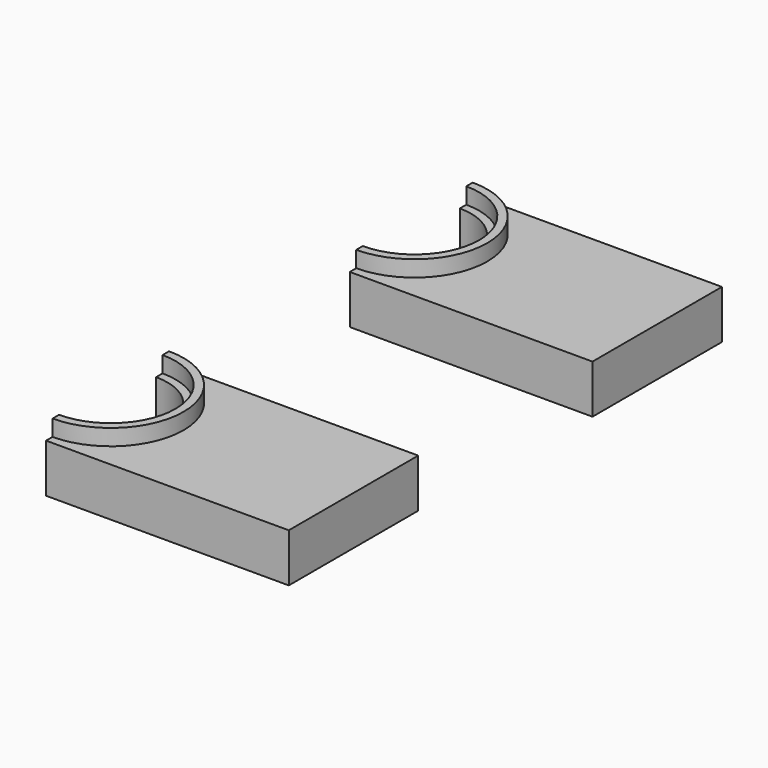
from build123d import *

# Parameters (mm, degrees)
F1_DEPTH = 30
F2_DEPTH = 40
F3_DEPTH = 10


with BuildPart() as f1:
    # F0 (on Top) → F1 (new body)
    with BuildSketch(Plane.XY):
        with BuildLine():
            ThreePointArc((-78.0790522695, -258.2348191738), (-38.0790522695, -218.2348191738), (-78.0790522695, -178.2348191738))
            Line((-78.0790522695, -178.2348191738), (-78.0790522695, -183.2348191738))
            ThreePointArc((-78.0790522695, -183.2348191738), (-43.0790522695, -218.2348191738), (-78.0790522695, -253.2348191738))
            Line((-78.0790522695, -253.2348191738), (-78.0790522695, -258.2348191738))
        make_face()
        with BuildLine():
            ThreePointArc((-78.0790522695, -268.2348191738), (-28.0790522695, -218.2348191738), (-78.0790522695, -168.2348191738))
            Line((-78.0790522695, -168.2348191738), (-78.0790522695, -173.2348191738))
            ThreePointArc((-78.0790522695, -173.2348191738), (-33.0790522695, -218.2348191738), (-78.0790522695, -263.2348191738))
            Line((-78.0790522695, -263.2348191738), (-78.0790522695, -268.2348191738))
        make_face()
        with BuildLine():
            ThreePointArc((-78.0790522695, -263.2348191738), (-33.0790522695, -218.2348191738), (-78.0790522695, -173.2348191738))
            Line((-78.0790522695, -173.2348191738), (-78.0790522695, -178.2348191738))
            ThreePointArc((-78.0790522695, -178.2348191738), (-38.0790522695, -218.2348191738), (-78.0790522695, -258.2348191738))
            Line((-78.0790522695, -258.2348191738), (-78.0790522695, -263.2348191738))
        make_face()
        with BuildLine():
            Line((71.9209477305, -168.2348191738), (-78.0790522695, -168.2348191738))
            ThreePointArc((-78.0790522695, -168.2348191738), (-28.0790522695, -218.2348191738), (-78.0790522695, -268.2348191738))
            Line((-78.0790522695, -268.2348191738), (71.9209477305, -268.2348191738))
            Line((71.9209477305, -268.2348191738), (71.9209477305, -168.2348191738))
        make_face()
    extrude(amount=F1_DEPTH)

    # F0 (on Top) → F2 (join)
    with BuildSketch(Plane.XY):
        with BuildLine():
            ThreePointArc((-78.0790522695, -263.2348191738), (-33.0790522695, -218.2348191738), (-78.0790522695, -173.2348191738))
            Line((-78.0790522695, -173.2348191738), (-78.0790522695, -178.2348191738))
            ThreePointArc((-78.0790522695, -178.2348191738), (-38.0790522695, -218.2348191738), (-78.0790522695, -258.2348191738))
            Line((-78.0790522695, -258.2348191738), (-78.0790522695, -263.2348191738))
        make_face()
    extrude(amount=F2_DEPTH)


with BuildPart() as f1b:
    # F0 (on Top) → F1, piece 2 (new body)
    with BuildSketch(Plane.XY):
        with BuildLine():
            Line((76.2191157851, 61.0128335655), (-73.7808842149, 61.0128335655))
            ThreePointArc((-73.7808842149, 61.0128335655), (-23.7808842149, 11.0128335655), (-73.7808842149, -38.9871664345))
            Line((-73.7808842149, -38.9871664345), (76.2191157851, -38.9871664345))
            Line((76.2191157851, -38.9871664345), (76.2191157851, 61.0128335655))
        make_face()
        with BuildLine():
            ThreePointArc((-73.7808842149, -38.9871664345), (-23.7808842149, 11.0128335655), (-73.7808842149, 61.0128335655))
            Line((-73.7808842149, 61.0128335655), (-73.7808842149, 56.0128335655))
            ThreePointArc((-73.7808842149, 56.0128335655), (-28.7808842149, 11.0128335655), (-73.7808842149, -33.9871664345))
            Line((-73.7808842149, -33.9871664345), (-73.7808842149, -38.9871664345))
        make_face()
        with BuildLine():
            ThreePointArc((-73.7808842149, -33.9871664345), (-28.7808842149, 11.0128335655), (-73.7808842149, 56.0128335655))
            Line((-73.7808842149, 56.0128335655), (-73.7808842149, 51.0128335655))
            ThreePointArc((-73.7808842149, 51.0128335655), (-33.7808842149, 11.0128335655), (-73.7808842149, -28.9871664345))
            Line((-73.7808842149, -28.9871664345), (-73.7808842149, -33.9871664345))
        make_face()
        with BuildLine():
            ThreePointArc((-73.7808842149, -28.9871664345), (-33.7808842149, 11.0128335655), (-73.7808842149, 51.0128335655))
            Line((-73.7808842149, 51.0128335655), (-73.7808842149, 46.0128335655))
            ThreePointArc((-73.7808842149, 46.0128335655), (-38.7808842149, 11.0128335655), (-73.7808842149, -23.9871664345))
            Line((-73.7808842149, -23.9871664345), (-73.7808842149, -28.9871664345))
        make_face()
    extrude(amount=F1_DEPTH)

    # F0 (on Top) → F2, piece 2 (join)
    with BuildSketch(Plane.XY):
        with BuildLine():
            ThreePointArc((-73.7808842149, -33.9871664345), (-28.7808842149, 11.0128335655), (-73.7808842149, 56.0128335655))
            Line((-73.7808842149, 56.0128335655), (-73.7808842149, 51.0128335655))
            ThreePointArc((-73.7808842149, 51.0128335655), (-33.7808842149, 11.0128335655), (-73.7808842149, -28.9871664345))
            Line((-73.7808842149, -28.9871664345), (-73.7808842149, -33.9871664345))
        make_face()
    extrude(amount=F2_DEPTH)


with BuildPart() as f3_tool:
    # F0 (on Top) → F3 (new body)
    with BuildSketch(Plane.XY):
        with BuildLine():
            ThreePointArc((-78.0790522695, -263.2348191738), (-33.0790522695, -218.2348191738), (-78.0790522695, -173.2348191738))
            Line((-78.0790522695, -173.2348191738), (-78.0790522695, -178.2348191738))
            ThreePointArc((-78.0790522695, -178.2348191738), (-38.0790522695, -218.2348191738), (-78.0790522695, -258.2348191738))
            Line((-78.0790522695, -258.2348191738), (-78.0790522695, -263.2348191738))
        make_face()
        with BuildLine():
            ThreePointArc((-73.7808842149, -33.9871664345), (-28.7808842149, 11.0128335655), (-73.7808842149, 56.0128335655))
            Line((-73.7808842149, 56.0128335655), (-73.7808842149, 51.0128335655))
            ThreePointArc((-73.7808842149, 51.0128335655), (-33.7808842149, 11.0128335655), (-73.7808842149, -28.9871664345))
            Line((-73.7808842149, -28.9871664345), (-73.7808842149, -33.9871664345))
        make_face()
    extrude(amount=F3_DEPTH)


with BuildPart() as f1_1:
    add(f1.part)

    # F3: cut by f3_tool
    add(f3_tool.part, mode=Mode.SUBTRACT)


with BuildPart() as f1b_1:
    add(f1b.part)

    # F3: cut by f3_tool
    add(f3_tool.part, mode=Mode.SUBTRACT)


solid = Compound([f1_1.part, f1b_1.part])
